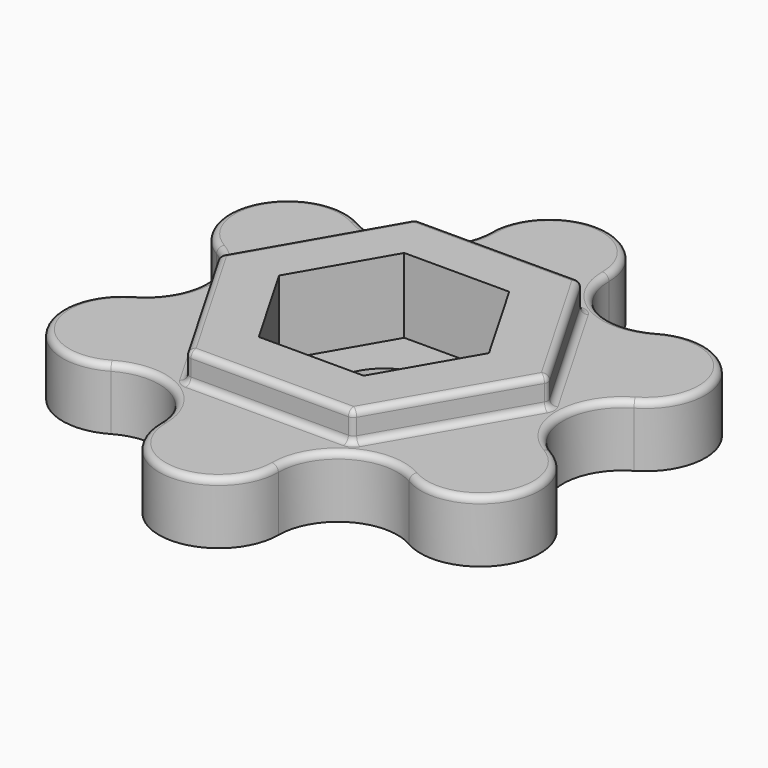
from build123d import *

# Parameters (mm, degrees)
F1_DEPTH = 1.9
F2_DEPTH = 2.8
F0_R     = 1.6
F3_DEPTH = 0.5
F4_R     = 0.2
F5_R     = 0.2


with BuildPart() as f1:
    # F0 (on Top) → F1 (new body)
    with BuildSketch(Plane.XY):
        with BuildLine():
            ThreePointArc((4.592189, 4.772343), (2.755314, 4.772343), (1.836876, 6.363124))
            ThreePointArc((1.836876, 6.363124), (0, 8.2), (-1.836876, 6.363124))
            ThreePointArc((-1.836876, 6.363124), (-2.755314, 4.772343), (-4.592189, 4.772343))
            ThreePointArc((-4.592189, 4.772343), (-7.101408, 4.1), (-6.429065, 1.590781))
            ThreePointArc((-6.429065, 1.590781), (-5.510627, 0), (-6.429065, -1.590781))
            ThreePointArc((-6.429065, -1.590781), (-7.101408, -4.1), (-4.592189, -4.772343))
            ThreePointArc((-4.592189, -4.772343), (-2.755314, -4.772343), (-1.836876, -6.363124))
            ThreePointArc((-1.836876, -6.363124), (0, -8.2), (1.836876, -6.363124))
            ThreePointArc((1.836876, -6.363124), (2.755314, -4.772343), (4.592189, -4.772343))
            ThreePointArc((4.592189, -4.772343), (7.101408, -4.1), (6.429065, -1.590781))
            ThreePointArc((6.429065, -1.590781), (5.510627, 0), (6.429065, 1.590781))
            ThreePointArc((6.429065, 1.590781), (7.101408, 4.1), (4.592189, 4.772343))
        make_face()
        Polygon((-2.540341, 4.4), (2.540341, 4.4), (5.080682, 0), (2.540341, -4.4), (-2.540341, -4.4), (-5.080682, 0), align=None, mode=Mode.SUBTRACT)
    extrude(amount=F1_DEPTH)

    # F0 (on Top) → F2 (join)
    with BuildSketch(Plane.XY):
        Polygon((5.080682, 0), (2.540341, 4.4), (-2.540341, 4.4), (-5.080682, 0), (-2.540341, -4.4), (2.540341, -4.4), align=None)
        Polygon((-1.616581, 2.8), (1.616581, 2.8), (3.233162, 0), (1.616581, -2.8), (-1.616581, -2.8), (-3.233162, 0), align=None, mode=Mode.SUBTRACT)
    extrude(amount=F2_DEPTH)

    # F0 (on Top) → F3 (join)
    with BuildSketch(Plane.XY):
        Polygon((3.233162, 0), (1.616581, 2.8), (-1.616581, 2.8), (-3.233162, 0), (-1.616581, -2.8), (1.616581, -2.8), align=None)
        Circle(F0_R, mode=Mode.SUBTRACT)
    extrude(amount=F3_DEPTH)

    # F4
    f4_edges = [f1.edges().sort_by_distance(p)[0] for p in [
        (3.810512, -2.2, 2.8),
        (2.540341, -4.4, 2.35),
        (0, -4.4, 2.8),
        (-2.540341, -4.4, 2.35),
        (-3.810512, -2.2, 2.8),
        (-3.810512, 2.2, 2.8),
        (-5.080682, 0, 2.35),
        (-2.540341, 4.4, 2.35),
        (0, 4.4, 2.8),
        (2.540341, 4.4, 2.35),
        (3.810512, 2.2, 2.8),
        (5.080682, 0, 2.35),
    ]]
    fillet(f4_edges, radius=F4_R)

    # F5
    f5_edges = [f1.edges().sort_by_distance(p)[0] for p in [
        (-3.810512, 2.2, 1.9),
        (-5.049742, 0, 1.9),
        (-2.524871, 4.373205, 1.9),
        (-3.810512, -2.2, 1.9),
        (0, 4.4, 1.9),
        (-2.524871, -4.373205, 1.9),
        (2.524871, 4.373205, 1.9),
        (0, -4.4, 1.9),
        (3.810512, 2.2, 1.9),
        (2.524871, -4.373205, 1.9),
        (5.049742, 0, 1.9),
        (3.810512, -2.2, 1.9),
        (5.510627, 0, 1.9),
        (7.101408, 4.1, 1.9),
        (2.755314, 4.772343, 1.9),
        (0, 8.2, 1.9),
        (-2.755314, 4.772343, 1.9),
        (-7.101408, 4.1, 1.9),
        (-5.510627, 0, 1.9),
        (-7.101408, -4.1, 1.9),
        (-2.755314, -4.772343, 1.9),
        (0, -8.2, 1.9),
        (2.755314, -4.772343, 1.9),
        (7.101408, -4.1, 1.9),
    ]]
    fillet(f5_edges, radius=F5_R)


solid = f1.part
